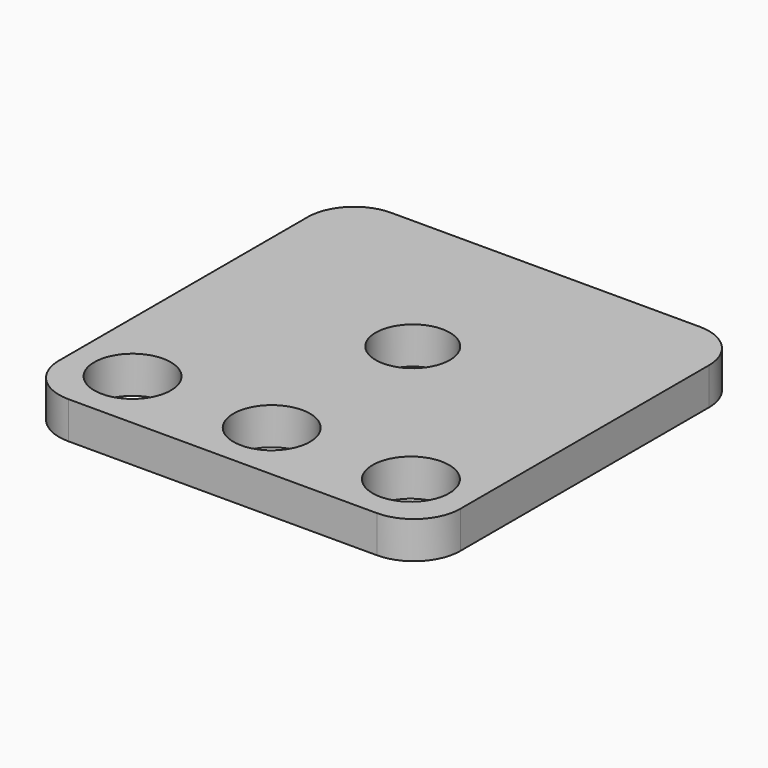
from build123d import *

# Parameters (mm, degrees)
SKETCH_R   = 8
SKETCH_R_2 = 8.25
PAD_DEPTH  = 8


with BuildPart() as part:
    # Sketch → Pad (new body)
    with BuildSketch(Plane.XY):
        with BuildLine():
            Line((-33.25, -51.25), (33.25, -51.25))
            ThreePointArc((33.25, -51.25), (40.321068, -48.321068), (43.25, -41.25))
            Line((43.25, 25.75), (43.25, -41.25))
            ThreePointArc((43.25, 25.75), (40.321068, 32.821068), (33.25, 35.75))
            Line((-33.25, 35.75), (33.25, 35.75))
            ThreePointArc((-33.25, 35.75), (-40.321068, 32.821068), (-43.25, 25.75))
            Line((-43.25, -41.25), (-43.25, 25.75))
            ThreePointArc((-43.25, -41.25), (-40.321068, -48.321068), (-33.25, -51.25))
        make_face()
        Circle(SKETCH_R, mode=Mode.SUBTRACT)
        with Locations((0, -38)):
            Circle(SKETCH_R_2, mode=Mode.SUBTRACT)
        with Locations((-30, -38)):
            Circle(SKETCH_R_2, mode=Mode.SUBTRACT)
        with Locations((30, -38)):
            Circle(SKETCH_R_2, mode=Mode.SUBTRACT)
    extrude(amount=PAD_DEPTH)


solid = part.part
